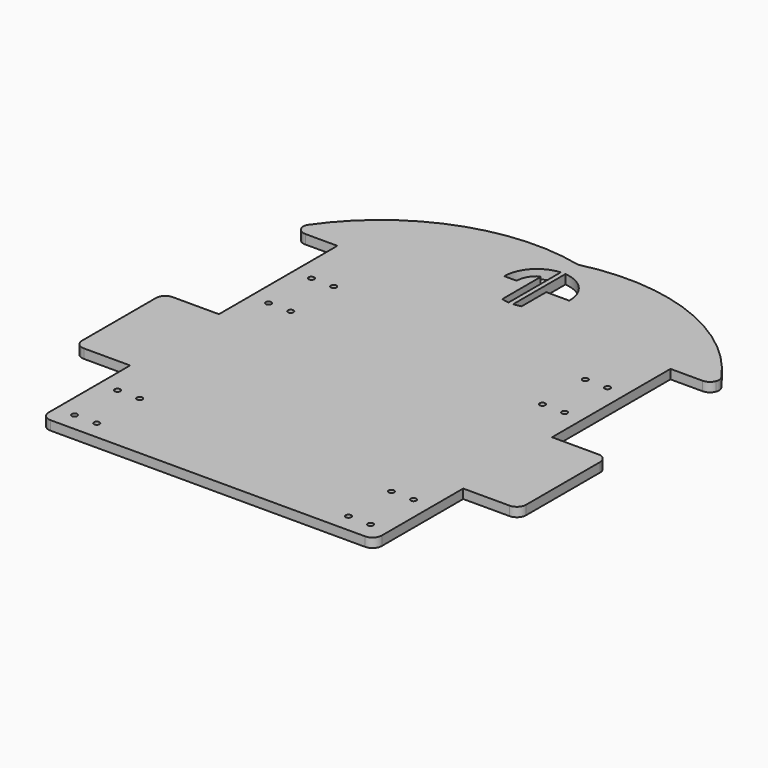
from build123d import *

# Parameters (mm, degrees)
F0_R     = 1.5
F1_DEPTH = 5


with BuildPart() as f1:
    # F0 (on Top) → F1 (new body)
    with BuildSketch(Plane.XY):
        with BuildLine():
            Line((-85, -139.788721), (0, -139.788721))
            Line((0, -139.788721), (85, -139.788721))
            ThreePointArc((85, -139.788721), (88.535534, -138.324255), (90, -134.788721))
            Line((90, -134.788721), (90, -79.788721))
            Line((90, -79.788721), (115, -79.788721))
            ThreePointArc((115, -79.788721), (118.535534, -78.324255), (120, -74.788721))
            Line((120, -74.788721), (120, -24.788721))
            ThreePointArc((120, -24.788721), (118.535534, -21.253187), (115, -19.788721))
            Line((115, -19.788721), (90, -19.788721))
            Line((90, -19.788721), (90, 60.211279))
            Line((90, 60.211279), (107.331263, 60.211279))
            ThreePointArc((107.331263, 60.211279), (110.183422, 61.104554), (112.016476, 63.465203))
            Line((112.016476, 63.465203), (112.016476, 66.957355))
            ThreePointArc((112.016476, 66.957355), (84.718477, 94.422814), (49.35951, 110.211279))
            Line((49.35951, 110.211279), (0, 110.211279))
            Line((0, 110.211279), (-49.35951, 110.211279))
            ThreePointArc((-49.35951, 110.211279), (-84.718477, 94.422814), (-112.016476, 66.957355))
            ThreePointArc((-112.016476, 66.957355), (-111.437988, 62.35912), (-107.331263, 60.211279))
            Line((-107.331263, 60.211279), (-90, 60.211279))
            Line((-90, 60.211279), (-90, -19.788721))
            Line((-90, -19.788721), (-115, -19.788721))
            ThreePointArc((-115, -19.788721), (-118.535534, -21.253187), (-120, -24.788721))
            Line((-120, -24.788721), (-120, -74.788721))
            ThreePointArc((-120, -74.788721), (-118.535534, -78.324255), (-115, -79.788721))
            Line((-115, -79.788721), (-90, -79.788721))
            Line((-90, -79.788721), (-90, -134.788721))
            ThreePointArc((-90, -134.788721), (-88.535534, -138.324255), (-85, -139.788721))
        make_face()
        with Locations((-80, -129.788721)):
            Circle(F0_R, mode=Mode.SUBTRACT)
        with Locations((-68, -129.788721)):
            Circle(F0_R, mode=Mode.SUBTRACT)
        with Locations((-80, -100.788721)):
            Circle(F0_R, mode=Mode.SUBTRACT)
        with Locations((-68, -100.788721)):
            Circle(F0_R, mode=Mode.SUBTRACT)
        with Locations((68, -129.788721)):
            Circle(F0_R, mode=Mode.SUBTRACT)
        with Locations((80, -129.788721)):
            Circle(F0_R, mode=Mode.SUBTRACT)
        with Locations((68, -100.788721)):
            Circle(F0_R, mode=Mode.SUBTRACT)
        with Locations((80, -100.788721)):
            Circle(F0_R, mode=Mode.SUBTRACT)
        with Locations((-80, 1.211279)):
            Circle(F0_R, mode=Mode.SUBTRACT)
        with Locations((-68, 1.211279)):
            Circle(F0_R, mode=Mode.SUBTRACT)
        with Locations((-80, 30.211279)):
            Circle(F0_R, mode=Mode.SUBTRACT)
        with Locations((-68, 30.211279)):
            Circle(F0_R, mode=Mode.SUBTRACT)
        with BuildLine():
            ThreePointArc((-17.676911, 82.535869), (-12.931679, 94.584283), (-1.247151, 100.165795))
            Line((-1.247151, 100.165795), (-1.247151, 82.535869))
            Line((-1.247151, 82.535869), (-1.247151, 65.032226))
            Line((-1.247151, 65.032226), (-1.247151, 64.898658))
            ThreePointArc((-1.247151, 64.898658), (-3.26889, 65.159564), (-5.247151, 65.651485))
            Line((-5.247151, 65.651485), (-5.247151, 91.23742))
            Line((-5.247151, 91.23742), (-5.247151, 91.388263))
            ThreePointArc((-5.247151, 91.388263), (-5.489313, 91.753134), (-5.924736, 91.799832))
            ThreePointArc((-5.924736, 91.799832), (-6.030968, 91.731045), (-6.136403, 91.661041))
            ThreePointArc((-6.136403, 91.661041), (-9.706855, 87.70545), (-10.999241, 82.535869))
            Line((-10.999241, 82.535869), (-17.676911, 82.535869))
        make_face(mode=Mode.SUBTRACT)
        with Locations((68, 1.211279)):
            Circle(F0_R, mode=Mode.SUBTRACT)
        with Locations((80, 1.211279)):
            Circle(F0_R, mode=Mode.SUBTRACT)
        with Locations((68, 30.211279)):
            Circle(F0_R, mode=Mode.SUBTRACT)
        with Locations((80, 30.211279)):
            Circle(F0_R, mode=Mode.SUBTRACT)
        with BuildLine():
            Line((17.675713, 82.22239), (5.25, 82.22239))
            Line((5.25, 82.22239), (5.25, 65.651899))
            ThreePointArc((5.25, 65.651899), (3.271749, 65.159817), (1.25, 64.898753))
            Line((1.25, 64.898753), (1.25, 65.032226))
            Line((1.25, 65.032226), (1.25, 82.532226))
            Line((1.25, 82.532226), (1.25, 100.1657))
            ThreePointArc((1.25, 100.1657), (13.040003, 94.468646), (17.675713, 82.22239))
        make_face(mode=Mode.SUBTRACT)
        with BuildLine():
            Line((112.016476, 66.957355), (112.016476, 63.465203))
            ThreePointArc((112.016476, 63.465203), (112.331263, 65.211279), (112.016476, 66.957355))
        make_face()
        with BuildLine():
            ThreePointArc((0, 110.211279), (-24.679755, 113.133397), (-49.35951, 110.211279))
            Line((-49.35951, 110.211279), (0, 110.211279))
        make_face()
        with BuildLine():
            ThreePointArc((49.35951, 110.211279), (24.679755, 113.133397), (0, 110.211279))
            Line((0, 110.211279), (49.35951, 110.211279))
        make_face()
    extrude(amount=F1_DEPTH)


solid = f1.part
